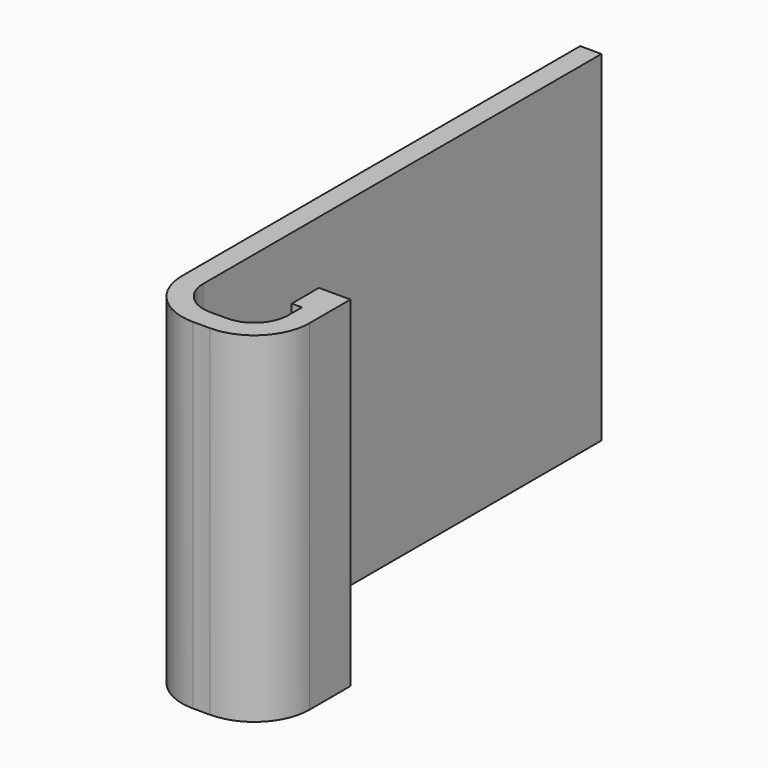
from build123d import *

# Parameters (mm, degrees)
F1_DEPTH = 50.8
F2_W     = 1.524
F2_H     = 5.08
F3_DEPTH = 50.8


with BuildPart() as f1:
    # F0 (on Top) → F1 (new body)
    with BuildSketch(Plane.XY):
        with BuildLine():
            Line((3.175, 0), (0, 0))
            Line((0, 0), (0, -74.295))
            ThreePointArc((0, -74.295), (2.417834, -80.132166), (8.255, -82.55))
            Line((8.255, -82.55), (10.795, -82.55))
            ThreePointArc((10.795, -82.55), (16.632166, -80.132166), (19.05, -74.295))
            Line((19.05, -74.295), (19.05, -66.675))
            Line((19.05, -66.675), (15.875, -66.675))
            Line((15.875, -66.675), (15.875, -74.295))
            ThreePointArc((15.875, -74.295), (14.387102, -77.887102), (10.795, -79.375))
            Line((10.795, -79.375), (8.255, -79.375))
            ThreePointArc((8.255, -79.375), (4.662898, -77.887102), (3.175, -74.295))
            Line((3.175, -74.295), (3.175, 0))
        make_face()
    extrude(amount=F1_DEPTH)

    # F2 (on face) → F3 (join)
    with BuildSketch(Plane(origin=(0, 0, 0), x_dir=(1, 0, 0), z_dir=(0, 0, -1))):
        with Locations((15.113, 69.215)):
            Rectangle(F2_W, F2_H)
    extrude(amount=-F3_DEPTH)


solid = f1.part
